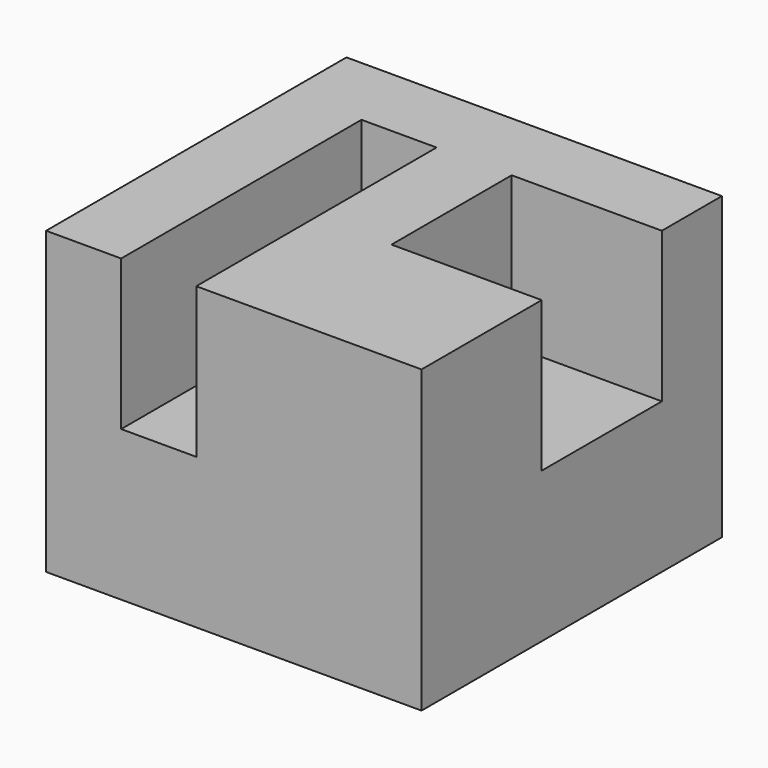
from build123d import *

# Parameters (mm, degrees)
F0_W     = 63.5
F0_H     = 63.5
F1_DEPTH = 50.8
F2_W     = 12.7
F2_H     = 50.8
F3_DEPTH = 25.4
F2_W_2   = 25.4
F2_H_2   = 25.4
F4_DEPTH = 25.4


with BuildPart() as f1:
    # F0 (on Top) → F1 (new body)
    with BuildSketch(Plane.XY):
        with Locations((-6.358771, -0.99303)):
            Rectangle(F0_W, F0_H)
    extrude(amount=-F1_DEPTH)

    # F2 (on face) → F3 (cut)
    with BuildSketch(Plane.XY):
        with Locations((-19.058771, -7.34303)):
            Rectangle(F2_W, F2_H)
    extrude(amount=-F3_DEPTH, mode=Mode.SUBTRACT)

    # F2 (on face) → F4 (cut)
    with BuildSketch(Plane.XY):
        with Locations((12.691229, 5.35697)):
            Rectangle(F2_W_2, F2_H_2)
    extrude(amount=-F4_DEPTH, mode=Mode.SUBTRACT)


solid = f1.part
